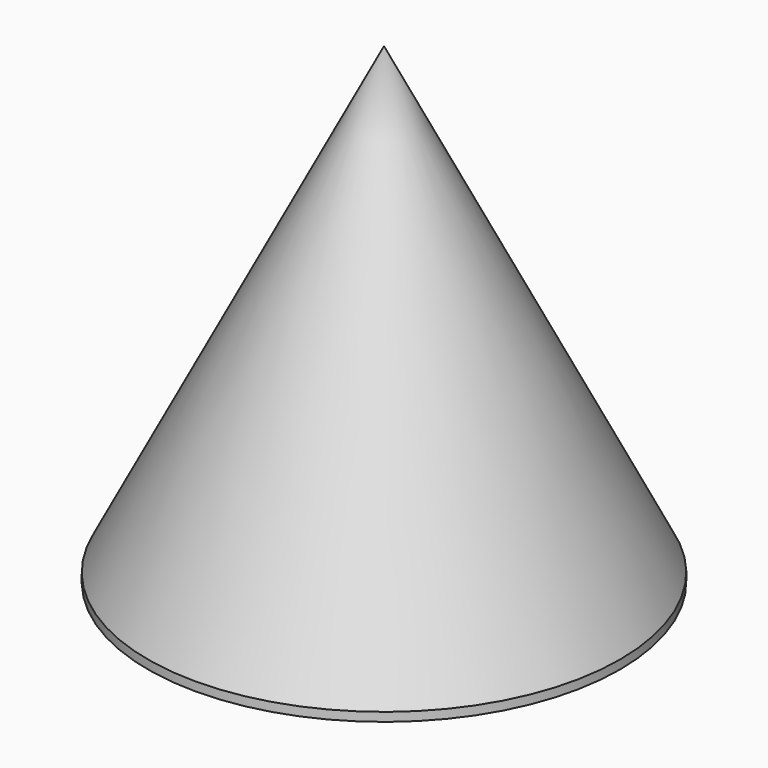
from build123d import *

# Parameters (mm, degrees)
F0_R     = 30
F1_DEPTH = 60
F2_SIZE2 = 58.8783151652
F2_SIZE  = 30


with BuildPart() as f1:
    # F0 (on Top) → F1 (new body)
    with BuildSketch(Plane.XY):
        Circle(F0_R)
    extrude(amount=F1_DEPTH)

    # F2
    f2_edges = [f1.edges().sort_by_distance(p)[0] for p in [
        (-30, 0, 60),
    ]]
    f2_side = f1.faces().sort_by_distance((0, 0, 60))[0]
    chamfer(f2_edges, length=F2_SIZE, length2=F2_SIZE2, reference=f2_side)


solid = f1.part
